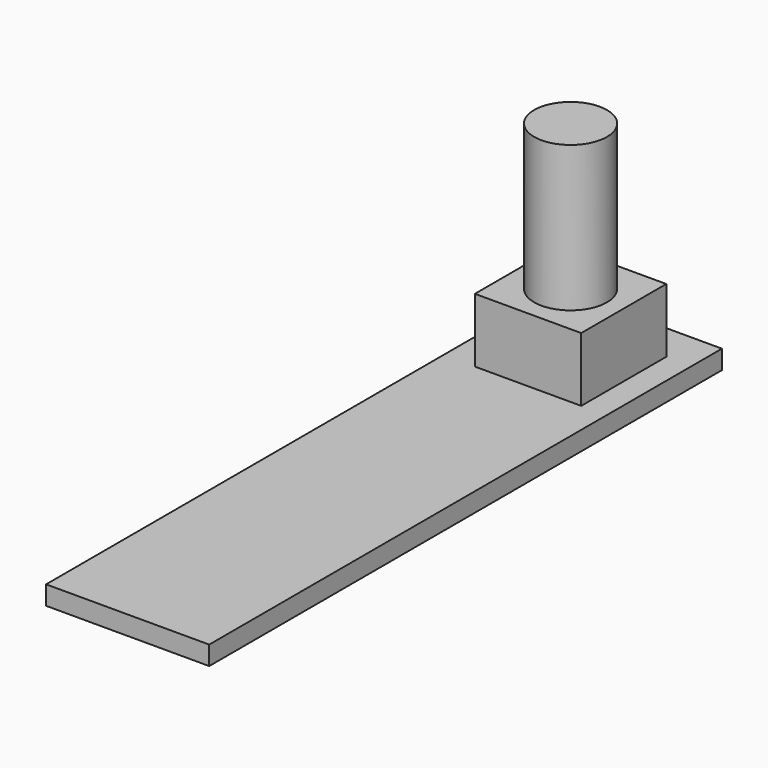
from build123d import *

# Parameters (mm, degrees)
F0_W     = 14.224
F0_H     = 55.88
F0_W_2   = 9.271
F0_H_2   = 9.271
F0_R     = 3.175
F1_DEPTH = 1.651
F2_DEPTH = 5.588
F3_DEPTH = 18.288


with BuildPart() as f1:
    # F0 (on Top) → F1 (new body)
    with BuildSketch(Plane.XY):
        with Locations((7.112, -27.94)):
            Rectangle(F0_W, F0_H)
        with Locations((7.3787, -7.9375)):
            Rectangle(F0_W_2, F0_H_2, mode=Mode.SUBTRACT)
        with Locations((7.3787, -7.9375)):
            Rectangle(F0_W_2, F0_H_2)
        with Locations((7.3787, -7.9375)):
            Circle(F0_R, mode=Mode.SUBTRACT)
        with Locations((7.3787, -7.9375)):
            Circle(F0_R)
    extrude(amount=-F1_DEPTH)


with BuildPart() as f2:
    # F0 (on Top) → F2 (new body)
    with BuildSketch(Plane.XY):
        with Locations((7.3787, -7.9375)):
            Rectangle(F0_W_2, F0_H_2)
        with Locations((7.3787, -7.9375)):
            Circle(F0_R, mode=Mode.SUBTRACT)
        with Locations((7.3787, -7.9375)):
            Circle(F0_R)
    extrude(amount=F2_DEPTH)


with BuildPart() as f3:
    # F0 (on Top) → F3 (new body)
    with BuildSketch(Plane.XY):
        with Locations((7.3787, -7.9375)):
            Circle(F0_R)
    extrude(amount=F3_DEPTH)


solid = Compound([f1.part, f2.part, f3.part])
